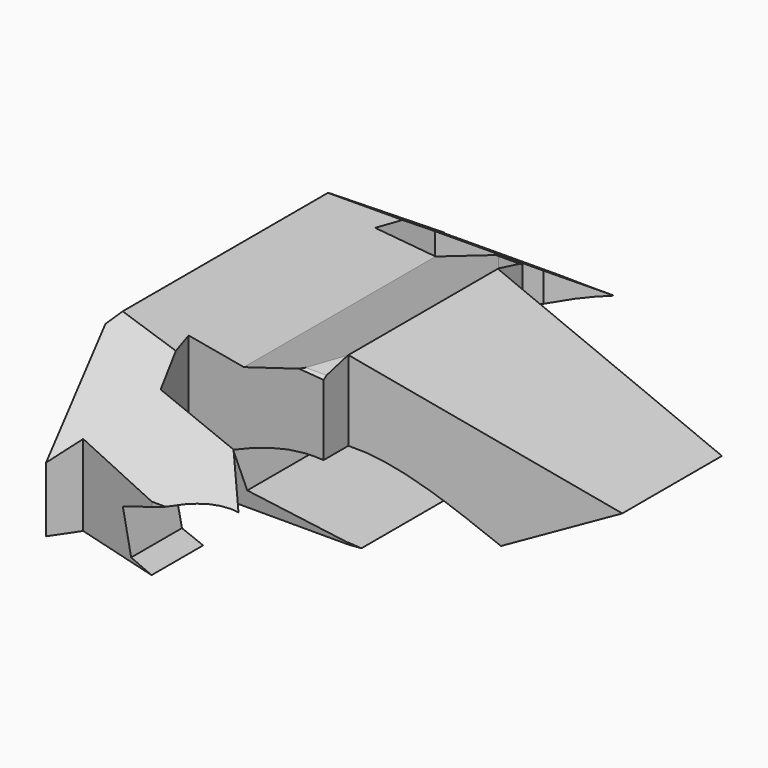
from build123d import *

# Parameters (mm, degrees)
F0_W     = 50
F0_H     = 50
F1_DEPTH = 50
F5_DEPTH = 50
F6_DEPTH = 50
F7_DEPTH = 50


with BuildPart() as f1:
    # F0 (on Top) → F1 (new body)
    with BuildSketch(Plane.XY):
        Rectangle(F0_W, F0_H)
    extrude(amount=F1_DEPTH)

    # F4 (on face) → F5 (cut)
    with BuildSketch(Plane.XY.offset(50)):
        Polygon((-21.7674206942, -9.375), (-25, -6.2522464432), (-25, -25), (-17.8532954305, -25), align=None)
        Polygon((-17.8532954305, -25), (-7.2292452678, -25), (-16.1449728927, -22.4763174233), align=None)
        Polygon((-25, 25), (-25, 6.2522464432), (-21.7674206942, 9.375), (-17.8532954305, 25), align=None)
        Polygon((-7.2292452678, 25), (-17.8532954305, 25), (-16.1449728927, 22.4763174233), align=None)
        Polygon((0, 9.375), (25, 6.25), (25, 25), (1.6374464612, 25), (-3.4748809412, 19.4482598454), (-12.5812105834, 17.2116179019), (-14.1788134351, 11.6998916492), (0, 12.5), align=None)
        Polygon((25, -6.25), (0, -9.375), (0, -12.5), (-14.1788134351, -11.6998916492), (-12.5812105834, -17.2116179019), (-3.4748809412, -19.4482598454), (1.6374464612, -25), (25, -25), align=None)
    extrude(amount=-F5_DEPTH, mode=Mode.SUBTRACT)

    # F2 (on face) → F6 (cut)
    with BuildSketch(Plane(origin=(0, 25, 0), x_dir=(-1, 0, 0), z_dir=(0, 1, 0))):
        Polygon((-25, 50), (-25, 25), (0, 32.1414284285), (8.3757676184, 29.4250827283), (19.8619887233, 30.9700127691), (25, 25), (25, 50), align=None)
        with BuildLine():
            Line((-13.9249656349, 19.0807655454), (-25, 25))
            Line((-25, 25), (-25, 0))
            Line((-25, 0), (25, 0))
            Line((25, 0), (25, 15.3191965073))
            Line((25, 15.3191965073), (-1.6326936893, 15.3191965073))
            Line((-1.6326936893, 15.3191965073), (9.9206976593, 17.0656405389))
            Line((9.9206976593, 17.0656405389), (10.9954318032, 21.0958924145))
            add(Edge.make_bspline(
                [(-13.9249656349, 19.0807655454), (-9.159473278, 21.5130057184), (-0.2120971707, 26.0796204523), (7.4256507336, 22.683291211), (10.9954318032, 21.0958924145)],
                knots=[0, 0, 0, 0, 0.5326133941, 1, 1, 1, 1], degree=3))
        make_face()
    extrude(amount=-F6_DEPTH, mode=Mode.SUBTRACT)

    # F3 (on face) → F7 (cut)
    with BuildSketch(Plane.YZ.offset(25)):
        Polygon((-25, 50), (-25, 23.1785289943), (-12.1138873269, 31.4618550395), (-6.5010248844, 32.8950696164), (0, 32.8950696164), (6.5010248844, 32.8950696164), (12.1138873269, 31.4618550395), (25, 23.1785289943), (25, 50), align=None)
        Polygon((-17.9481003433, 16.6653934866), (-25, 16.6653934866), (-25, 0), (25, 0), (25, 16.6653934866), (17.9481003433, 16.6653934866), (10.4906205088, 21.9307970256), (9.3806944788, 15.3860524297), (0, 15.3860524297), (-9.3806944788, 15.3860524297), (-10.4906205088, 21.9307970256), align=None)
    extrude(amount=-F7_DEPTH, mode=Mode.SUBTRACT)


solid = f1.part
